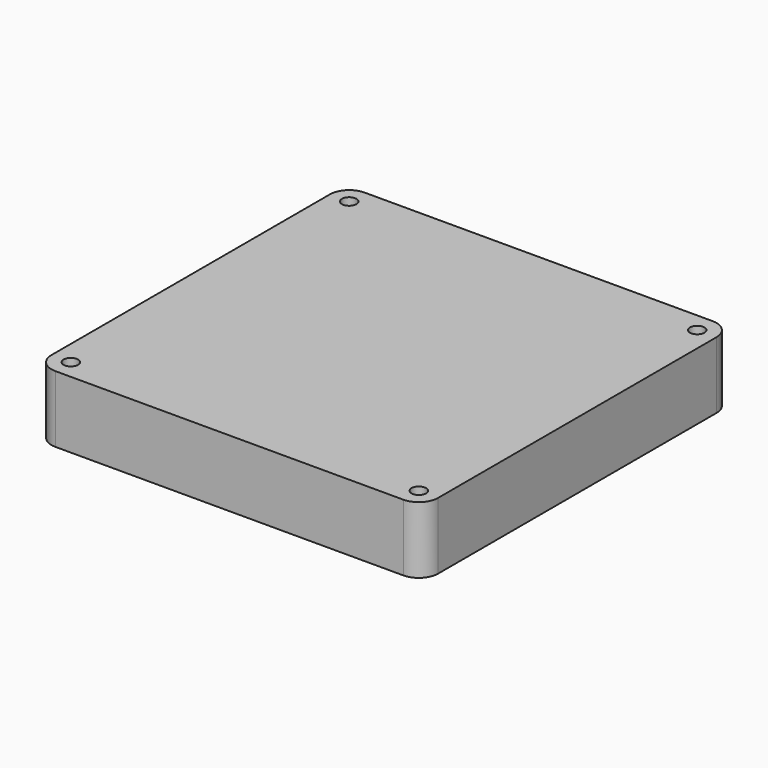
from build123d import *

# Parameters (mm, degrees)
SKETCH109_W          = 80
SKETCH109_H          = 80
PAD_DEPTH            = 13
PAD_DEPTH_BACK       = 0.8
FILLET059_R          = 4
SKETCH110_R          = 1.5
POCKET055_DEPTH      = 0.801
POCKET055_DEPTH_BACK = 13.001


with BuildPart() as part:
    # Sketch109 → Pad (new body, two sides)
    with BuildSketch(Plane.XY) as pad_sk:
        Rectangle(SKETCH109_W, SKETCH109_H)
    extrude(amount=PAD_DEPTH)
    extrude(pad_sk.sketch, amount=-PAD_DEPTH_BACK)

    # Fillet059
    fillet059_edges = [part.edges().sort_by_distance(p)[0] for p in [
        (-40, 40, 6.1),
        (-40, -40, 6.1),
        (40, -40, 6.1),
        (40, 40, 6.1),
    ]]
    fillet(fillet059_edges, radius=FILLET059_R)

    # Sketch110 → Pocket055 (cut, two sides)
    with BuildSketch(Plane.XY) as pocket055_sk:
        with Locations((-36, 36)):
            Circle(SKETCH110_R)
        with Locations((36, 36)):
            Circle(SKETCH110_R)
        with Locations((36, -36)):
            Circle(SKETCH110_R)
        with Locations((-36, -36)):
            Circle(SKETCH110_R)
    extrude(amount=-POCKET055_DEPTH, mode=Mode.SUBTRACT)
    extrude(pocket055_sk.sketch, amount=POCKET055_DEPTH_BACK, mode=Mode.SUBTRACT)


solid = part.part
